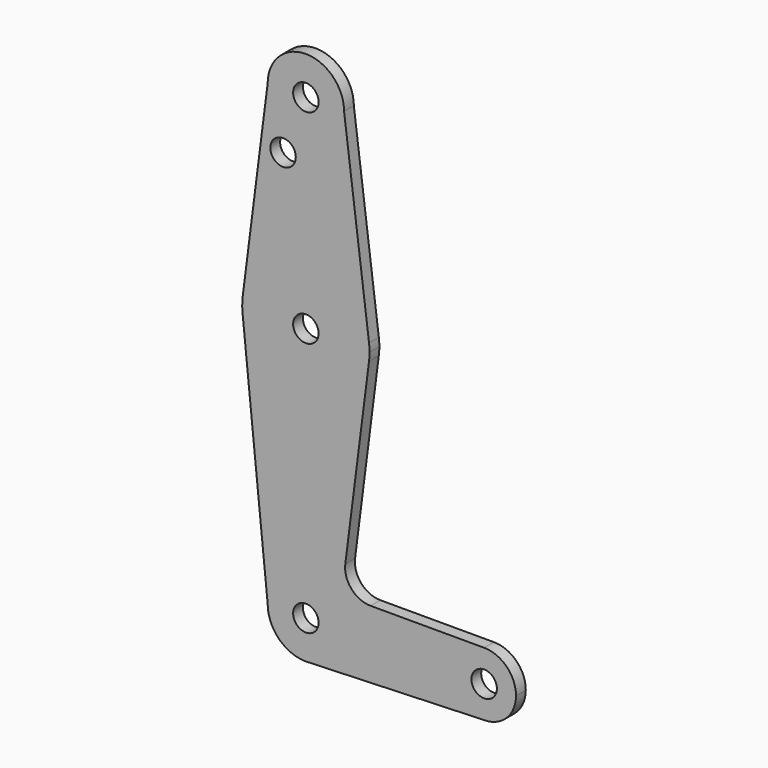
from build123d import *

# Parameters (mm, degrees)
F0_R     = 3.175
F0_R_2   = 3.171349
F1_DEPTH = 3.048


with BuildPart() as f1:
    # F0 (on Front) → F1 (new body)
    with BuildSketch(Plane.XZ):
        with BuildLine():
            ThreePointArc((-9.525, 114.3), (0, 104.775), (9.525, 114.3))
            ThreePointArc((9.525, 114.3), (0, 123.825), (-9.525, 114.3))
        make_face()
        with Locations((0, 114.3)):
            Circle(F0_R, mode=Mode.SUBTRACT)
        with BuildLine():
            Line((15.747457, 65.508289), (9.525, 114.3))
            ThreePointArc((9.525, 114.3), (0, 104.775), (-9.525, 114.3))
            Line((-9.525, 114.3), (-15.747457, 65.508289))
            ThreePointArc((-15.747457, 65.508289), (0, 79.375), (15.747457, 65.508289))
        make_face()
        with Locations((-5.688983, 100.346573)):
            Circle(F0_R_2, mode=Mode.SUBTRACT)
        with BuildLine():
            ThreePointArc((15.875, 63.5), (15.843082, 64.506168), (15.747457, 65.508289))
            ThreePointArc((15.747457, 65.508289), (0, 79.375), (-15.747457, 65.508289))
            ThreePointArc((-15.747457, 65.508289), (-15.873668, 63.705667), (-15.794203, 61.900381))
            ThreePointArc((-15.794203, 61.900381), (-0.205667, 47.626332), (15.747457, 61.491711))
            ThreePointArc((15.747457, 61.491711), (15.843082, 62.493832), (15.875, 63.5))
        make_face()
        with Locations((0, 63.5)):
            Circle(F0_R, mode=Mode.SUBTRACT)
        with BuildLine():
            ThreePointArc((15.747457, 61.491711), (-0.205667, 47.626332), (-15.794203, 61.900381))
            Line((-15.794203, 61.900381), (-9.525, 0))
            ThreePointArc((-9.525, 0), (0, 9.525), (9.525, 0))
            ThreePointArc((9.525, 0), (6.97129, -6.490511), (0.67949, -9.500732))
            Line((0.67949, -9.500732), (44.45, -7.9375))
            ThreePointArc((44.45, -7.9375), (36.5125, 0), (44.45, 7.9375))
            Line((44.45, 7.9375), (16.128886, 7.9375))
            ThreePointArc((16.128886, 7.9375), (11.363198, 10.090987), (9.829903, 15.090816))
            Line((9.829903, 15.090816), (15.747457, 61.491711))
        make_face()
        with BuildLine():
            ThreePointArc((9.525, 0), (0, 9.525), (-9.525, 0))
            ThreePointArc((-9.525, 0), (-6.735192, -6.735192), (0, -9.525))
            Line((0, -9.525), (0.67949, -9.500732))
            ThreePointArc((0.67949, -9.500732), (6.97129, -6.490511), (9.525, 0))
        make_face()
        Circle(F0_R, mode=Mode.SUBTRACT)
        with BuildLine():
            Line((0.67949, -9.500732), (0, -9.525))
            ThreePointArc((0, -9.525), (0.339962, -9.518931), (0.67949, -9.500732))
        make_face()
        with BuildLine():
            ThreePointArc((52.3875, 0), (50.06266, 5.61266), (44.45, 7.9375))
            ThreePointArc((44.45, 7.9375), (36.5125, 0), (44.45, -7.9375))
            ThreePointArc((44.45, -7.9375), (50.06266, -5.61266), (52.3875, 0))
        make_face()
        with Locations((44.45, 0)):
            Circle(F0_R, mode=Mode.SUBTRACT)
    extrude(amount=F1_DEPTH)


solid = f1.part
